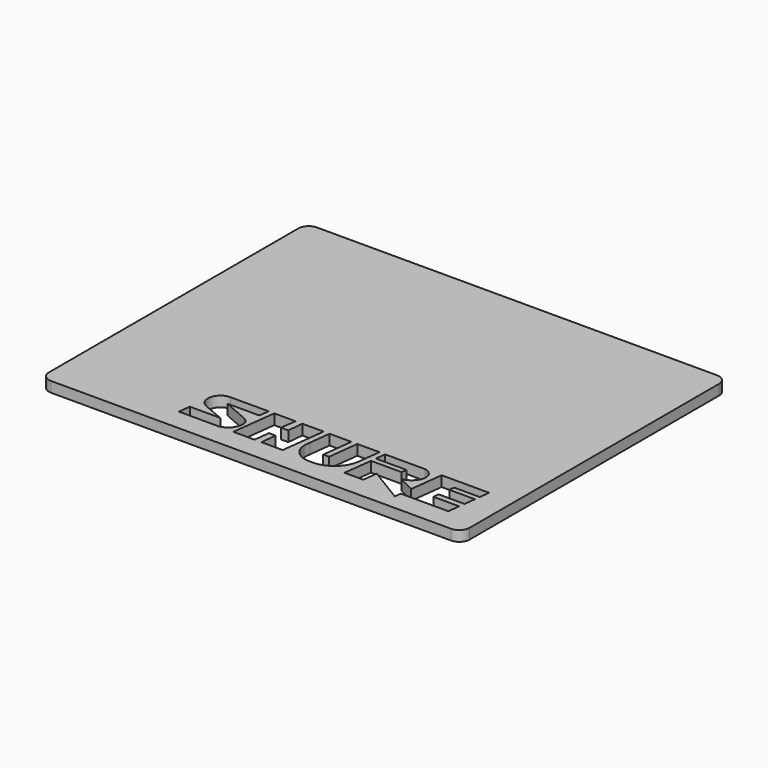
from build123d import *

# Parameters (mm, degrees)
F1_DEPTH = 2


with BuildPart() as f1:
    # F0 (on Top) → F1 (new body)
    with BuildSketch(Plane.XY):
        with BuildLine():
            Line((38.5, 32), (-38.5, 32))
            ThreePointArc((-38.5, 32), (-39.914214, 31.414214), (-40.5, 30))
            Line((-40.5, 30), (-40.5, -30))
            ThreePointArc((-40.5, -30), (-39.914214, -31.414214), (-38.5, -32))
            Line((-38.5, -32), (38.5, -32))
            ThreePointArc((38.5, -32), (39.914214, -31.414214), (40.5, -30))
            Line((40.5, -30), (40.5, 30))
            ThreePointArc((40.5, 30), (39.914214, 31.414214), (38.5, 32))
        make_face()
        with BuildLine():
            Line((-14.156608, -19.278183), (-6.796587, -19.278183))
            Line((-6.796587, -19.278183), (-7.043286, -21.202434))
            Line((-7.043286, -21.202434), (-13.171816, -21.202434))
            Line((-13.171816, -21.202434), (-8.257578, -23.336332))
            ThreePointArc((-8.257578, -23.336332), (-7.693573, -23.7045), (-7.283201, -24.238583))
            ThreePointArc((-7.283201, -24.238583), (-7.187055, -25.355602), (-7.57516, -26.407434))
            ThreePointArc((-7.57516, -26.407434), (-8.162286, -27.151444), (-8.991055, -27.611235))
            ThreePointArc((-8.991055, -27.611235), (-9.407134, -27.743018), (-9.841304, -27.787564))
            Line((-9.841304, -27.787564), (-17.261399, -27.787564))
            Line((-17.261399, -27.787564), (-16.982508, -25.497993))
            Line((-16.982508, -25.497993), (-11.124041, -25.497993))
            Line((-11.124041, -25.497993), (-15.400517, -23.714753))
            ThreePointArc((-15.400517, -23.714753), (-16.460434, -21.024911), (-14.156608, -19.278183))
        make_face(mode=Mode.SUBTRACT)
        Polygon((-6.765688, -27.807969), (-5.710213, -19.272984), (-1.610213, -19.272984), (-2.00846, -22.278396), (-0.60846, -22.278396), (-0.310213, -19.261419), (3.789787, -19.261419), (2.734312, -27.807969), (-1.365688, -27.807969), (-1.01981, -24.796081), (-2.31981, -24.796081), (-2.665688, -27.807969), align=None, mode=Mode.SUBTRACT)
        with BuildLine():
            Line((4.435009, -23.322333), (4.916379, -19.261419))
            Line((4.916379, -19.261419), (9.12297, -19.261419))
            Line((9.12297, -19.261419), (8.423959, -25.15839))
            Line((8.423959, -25.15839), (9.545833, -25.15839))
            Line((9.545833, -25.15839), (10.260896, -19.261419))
            Line((10.260896, -19.261419), (14.531394, -19.261419))
            Line((14.531394, -19.261419), (14.040345, -23.322333))
            ThreePointArc((14.040345, -23.322333), (13.47931, -25.305541), (12.177152, -26.903121))
            ThreePointArc((12.177152, -26.903121), (10.528686, -27.861759), (8.645048, -28.158968))
            Line((8.645048, -28.158968), (7.83402, -28.135747))
            ThreePointArc((7.83402, -28.135747), (6.559497, -27.853406), (5.479713, -27.119789))
            ThreePointArc((5.479713, -27.119789), (4.650237, -26.05356), (4.345927, -24.737403))
            ThreePointArc((4.345927, -24.737403), (4.370964, -24.02864), (4.435009, -23.322333))
        make_face(mode=Mode.SUBTRACT)
        with BuildLine():
            Line((15.398241, -21.228626), (15.655989, -19.27924))
            Line((15.655989, -19.27924), (23.361998, -19.27924))
            ThreePointArc((23.361998, -19.27924), (23.973508, -19.464315), (24.482634, -19.850304))
            ThreePointArc((24.482634, -19.850304), (24.952568, -20.470467), (25.122022, -21.229891))
            ThreePointArc((25.122022, -21.229891), (24.976643, -22.161111), (24.482634, -22.96377))
            ThreePointArc((24.482634, -22.96377), (24.224189, -23.229638), (23.942748, -23.471029))
            ThreePointArc((23.942748, -23.471029), (23.310315, -23.804824), (22.633367, -24.035329))
            Line((22.633367, -24.035329), (25.747633, -25.638494))
            Line((25.747633, -25.638494), (26.521526, -19.285074))
            Line((26.521526, -19.285074), (35.666785, -19.285074))
            Line((35.666785, -19.285074), (35.428666, -21.23996))
            Line((35.428666, -21.23996), (30.504135, -21.23996))
            Line((30.504135, -21.23996), (30.380566, -22.254426))
            Line((30.380566, -22.254426), (35.312741, -22.254426))
            Line((35.312741, -22.254426), (35.048537, -24.423456))
            Line((35.048537, -24.423456), (30.052341, -24.423456))
            Line((30.052341, -24.423456), (29.916808, -25.53614))
            Line((29.916808, -25.53614), (34.909014, -25.53614))
            Line((34.909014, -25.53614), (34.633271, -27.799897))
            Line((34.633271, -27.799897), (25.483873, -27.799897))
            Line((25.483873, -27.799897), (25.322597, -29.05257))
            Line((25.322597, -29.05257), (18.563323, -24.963122))
            Line((18.563323, -24.963122), (18.220527, -27.777495))
            Line((18.220527, -27.777495), (14.607977, -27.777495))
            Line((14.607977, -27.777495), (15.314928, -22.253705))
            Line((15.314928, -22.253705), (21.208841, -22.253705))
            Line((21.208841, -22.253705), (21.326447, -21.228626))
            Line((21.326447, -21.228626), (15.398241, -21.228626))
        make_face(mode=Mode.SUBTRACT)
    extrude(amount=F1_DEPTH)


solid = f1.part
